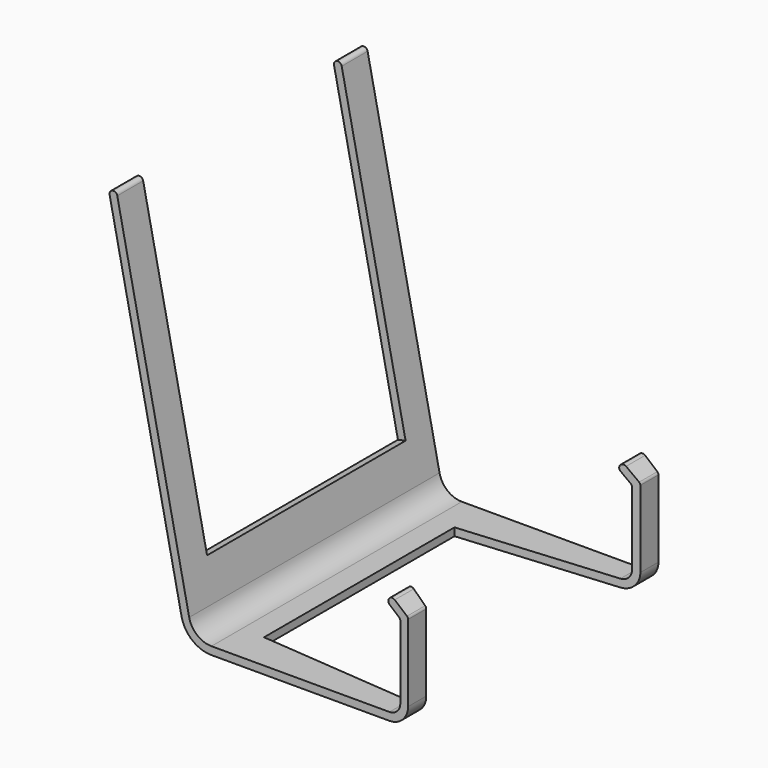
from build123d import *

# Parameters (mm, degrees)
PAD_DEPTH       = 60
POCKET_DEPTH    = 146.501
SKETCH002_W     = 132.291259
SKETCH002_H     = 95.159112
POCKET001_DEPTH = 5


with BuildPart() as part:
    # Sketch → Pad (new body, symmetric)
    with BuildSketch(Plane.XZ):
        with BuildLine():
            Line((-75.251187, 140.30381), (-47.669047, 6.945158))
            ThreePointArc((-47.669047, 6.945158), (-44.639819, 1.955924), (-39.140452, 0))
            Line((-39.140452, 0), (29.128963, 0))
            ThreePointArc((29.128963, 0), (32.06412, 1.215782), (33.279902, 4.150939))
            Line((33.279902, 4.150939), (33.279902, 32.237305))
            ThreePointArc((33.279902, 32.237305), (33.175099, 32.712971), (32.880098, 33.100547))
            Line((32.880098, 33.100547), (29.206815, 36.21552))
            ThreePointArc((31.147112, 38.503586), (29.032931, 38.329702), (29.206815, 36.21552))
            Line((31.147112, 38.503586), (35.845014, 34.519728))
            ThreePointArc((36.279902, 33.580735), (36.165902, 34.098141), (35.845014, 34.519728))
            Line((36.279902, 33.580735), (36.279902, 4.150939))
            ThreePointArc((29.128963, -3), (34.18544, -0.905538), (36.279902, 4.150939))
            Line((29.128963, -3), (-39.140452, -3))
            ThreePointArc((-50.606869, 6.337538), (-46.534171, -0.370324), (-39.140452, -3))
            Line((-50.606869, 6.337538), (-78.189009, 139.69619))
            ThreePointArc((-75.251187, 140.30381), (-77.023908, 141.468911), (-78.189009, 139.69619))
        make_face()
    extrude(amount=PAD_DEPTH, both=True)

    # Sketch001 → Pocket (cut, through all)
    with BuildSketch(Plane.XY.offset(-5)):
        Polygon((-30.454193, 45.645451), (-30.454193, -45.645451), (48.285122, -52.340881), (48.285122, 52.340881), align=None)
    extrude(amount=POCKET_DEPTH, mode=Mode.SUBTRACT)

    # Sketch002 (on Face7 of Pocket) → Pocket001 (cut)
    with BuildSketch(Plane(origin=(-44.336026, 0, -9.169877), x_dir=(-0.20254, 0, 0.979274), z_dir=(0.979274, 0, 0.20254))):
        with Locations((97.820296, 0)):
            Rectangle(SKETCH002_W, SKETCH002_H)
    extrude(amount=-POCKET001_DEPTH, mode=Mode.SUBTRACT)


solid = part.part
